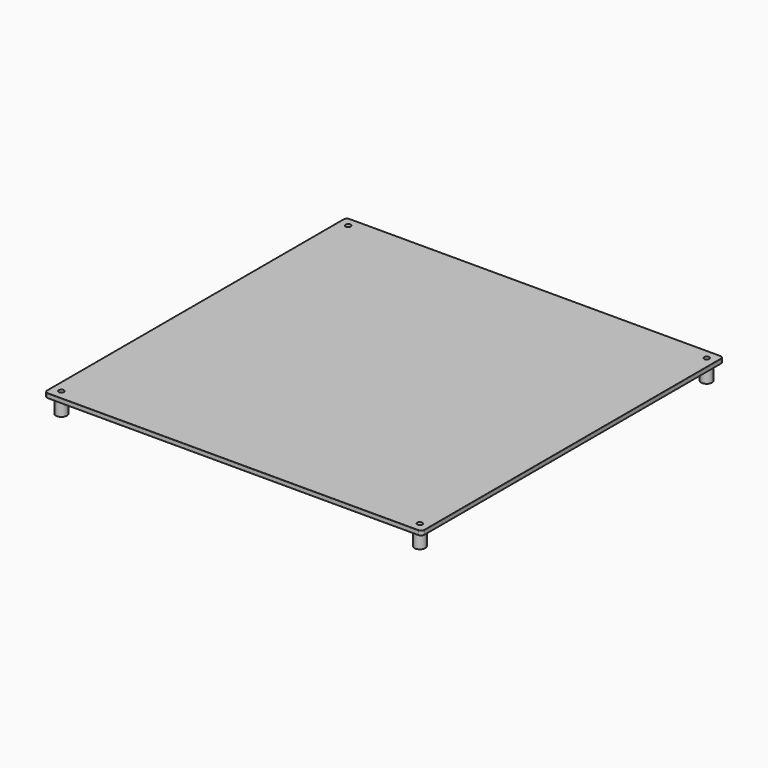
from build123d import *

# Parameters (mm, degrees)
F0_W      = 219
F0_H      = 219
F2_DEPTH  = 2.54
F3_D      = 3
F4_R      = 2
F5_R      = 2
F6_R      = 2
F7_R      = 0.1
F8_R      = 0.1
F10_R     = 3.175
F10_R_2   = 1.55
F11_DEPTH = 9
F17_W     = 179.8
F17_H     = 179.8
F18_DEPTH = 0.5


with BuildPart() as f2:
    # F0 (on Top) → F2 (new body)
    with BuildSketch(Plane.XY):
        with Locations((-109.5, -109.5)):
            Rectangle(F0_W, F0_H)
    extrude(amount=F2_DEPTH)

    # F3 (through all)
    with Locations(Plane(origin=(0, 0, 0), x_dir=(1, 0, 0), z_dir=(0, 0, -1))):
        with Locations((-5.5, 5.5), (-5.5, 213.5), (-213.5, 213.5), (-213.5, 5.5)):
            Hole(F3_D / 2)

    # F4
    f4_edges = [f2.edges().sort_by_distance(p)[0] for p in [
        (-219, -219, 1.27),
    ]]
    fillet(f4_edges, radius=F4_R)

    # F5
    f5_edges = [f2.edges().sort_by_distance(p)[0] for p in [
        (-219, 0, 1.27),
        (0, -219, 1.27),
    ]]
    fillet(f5_edges, radius=F5_R)

    # F6
    f6_edges = [f2.edges().sort_by_distance(p)[0] for p in [
        (0, 0, 1.27),
    ]]
    fillet(f6_edges, radius=F6_R)

    # F7
    f7_edges = [f2.edges().sort_by_distance(p)[0] for p in [
        (-109.5, -219, 2.54),
    ]]
    fillet(f7_edges, radius=F7_R)

    # F8
    f8_edges = [f2.edges().sort_by_distance(p)[0] for p in [
        (-219, -109.5, 0),
    ]]
    fillet(f8_edges, radius=F8_R)


with BuildPart() as f9_1:
    # F9: copy of F2
    add(f2.part.moved(Location((0, 0, 9))))


with BuildPart() as f11:
    # F10 (on Top) → F11 (new body)
    with BuildSketch(Plane.XY):
        Circle(F10_R)
        Circle(F10_R_2, mode=Mode.SUBTRACT)
    extrude(amount=F11_DEPTH)


with BuildPart() as f2_1:
    # F12: moved
    add(f2.part.moved(Location((0, 0, -2.54))))

    # F17 (on face) → F18 (cut)
    with BuildSketch(Plane(origin=(0, 0, -2.54), x_dir=(1, 0, 0), z_dir=(0, 0, -1))):
        with Locations((-109.5, 109.5)):
            Rectangle(F17_W, F17_H)
    extrude(amount=-F18_DEPTH, mode=Mode.SUBTRACT)


with BuildPart() as f11_1:
    # F13: moved
    add(f11.part.moved(Location((-5.5, -5.5, 0))))


with BuildPart() as f14_1:
    # F14: copy of F11
    add(f11_1.part.moved(Location((0, -208, 0))))


with BuildPart() as f15_1:
    # F15: copy of F14_1
    add(f14_1.part.moved(Location((-208, 0, 0))))


with BuildPart() as f16_1:
    # F16: copy of F15_1
    add(f15_1.part.moved(Location((0, 208, 0))))


solid = Compound([f9_1.part, f11_1.part, f14_1.part, f15_1.part, f16_1.part])
